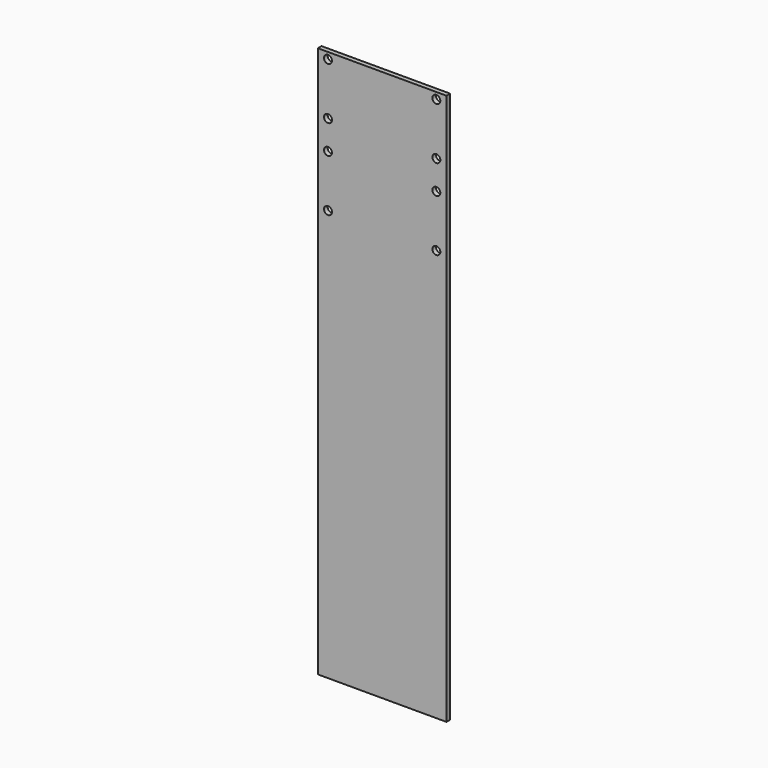
from build123d import *

# Parameters (mm, degrees)
F0_W     = 177.8
F0_H     = 762
F0_R     = 5.5
F1_DEPTH = 6.35


with BuildPart() as f1:
    # F0 (on Front) → F1 (new body)
    with BuildSketch(Plane.XZ):
        with Locations((-216.127327, -263.443022)):
            Rectangle(F0_W, F0_H)
        with Locations((-291.027327, -75.443022)):
            Circle(F0_R, mode=Mode.SUBTRACT)
        with Locations((-291.027327, -3.443022)):
            Circle(F0_R, mode=Mode.SUBTRACT)
        with Locations((-291.027327, 36.556978)):
            Circle(F0_R, mode=Mode.SUBTRACT)
        with Locations((-291.027327, 108.556978)):
            Circle(F0_R, mode=Mode.SUBTRACT)
        with Locations((-141.227327, -75.443022)):
            Circle(F0_R, mode=Mode.SUBTRACT)
        with Locations((-141.227327, -3.443022)):
            Circle(F0_R, mode=Mode.SUBTRACT)
        with Locations((-141.227327, 36.556978)):
            Circle(F0_R, mode=Mode.SUBTRACT)
        with Locations((-141.227327, 108.556978)):
            Circle(F0_R, mode=Mode.SUBTRACT)
    extrude(amount=F1_DEPTH)


solid = f1.part
